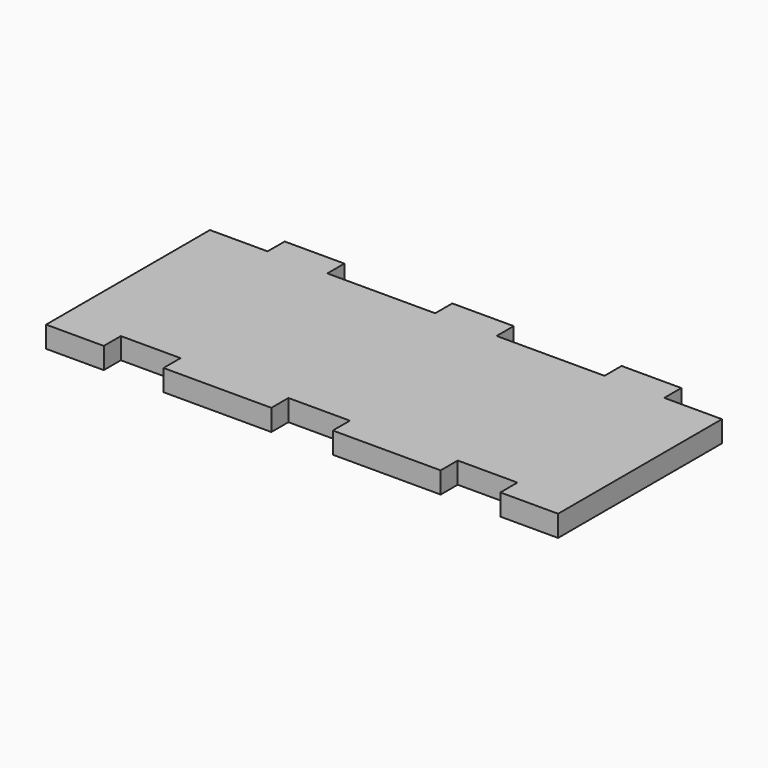
from build123d import *

# Parameters (mm, degrees)
F0_W     = 8.89
F0_H     = 3.175
F0_W_2   = 9.144
F1_DEPTH = 3.175


with BuildPart() as f1:
    # F0 (on Top) → F1 (new body)
    with BuildSketch(Plane.XY):
        with Locations((-25.0698, 16.8275)):
            Rectangle(F0_W, F0_H)
        Polygon((-29.5148, 15.24), (-38.1, 15.24), (-38.1, -15.24), (-29.5148, -15.24), (-29.5148, -12.065), (-20.6248, -12.065), (-20.6248, -15.24), (-4.572, -15.24), (-4.572, -12.065), (4.572, -12.065), (4.572, -15.24), (20.6248, -15.24), (20.6248, -12.065), (29.5148, -12.065), (29.5148, -15.24), (38.1, -15.24), (38.1, 15.24), (29.5148, 15.24), (20.6248, 15.24), (4.572, 15.24), (-4.572, 15.24), (-20.6248, 15.24), align=None)
        with Locations((0, 16.8275)):
            Rectangle(F0_W_2, F0_H)
        with Locations((25.0698, 16.8275)):
            Rectangle(F0_W, F0_H)
    extrude(amount=F1_DEPTH)


solid = f1.part
